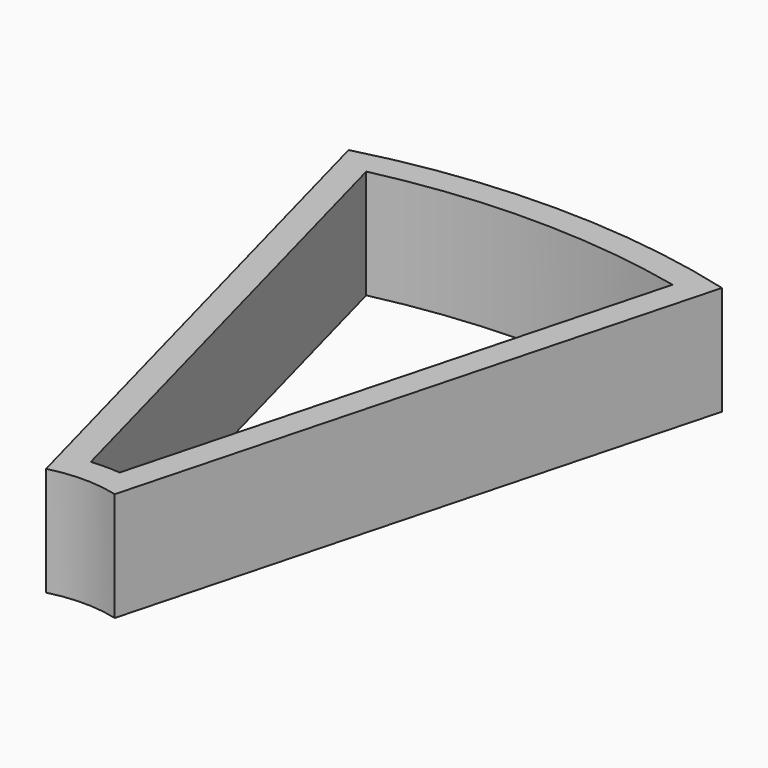
from build123d import *

# Parameters (mm, degrees)
F1_DEPTH = 25.4


with BuildPart() as f1:
    # F0 (on Top) → F1 (new body)
    with BuildSketch(Plane.XY):
        with BuildLine():
            ThreePointArc((-8.001, 30.72534), (0, 31.75), (8.001, 30.72534))
            Line((8.001, 30.72534), (43.500786, 163.212345))
            ThreePointArc((43.500786, 163.212345), (0, 168.91), (-43.500786, 163.212345))
            Line((-43.500786, 163.212345), (-8.001, 30.72534))
        make_face()
        with BuildLine():
            Line((35.689277, 158.593913), (3.363179, 37.951272))
            ThreePointArc((3.363179, 37.951272), (0, 38.1), (-3.363179, 37.951272))
            Line((-3.363179, 37.951272), (-35.689277, 158.593913))
            ThreePointArc((-35.689277, 158.593913), (0, 162.56), (35.689277, 158.593913))
        make_face(mode=Mode.SUBTRACT)
    extrude(amount=F1_DEPTH)


solid = f1.part
